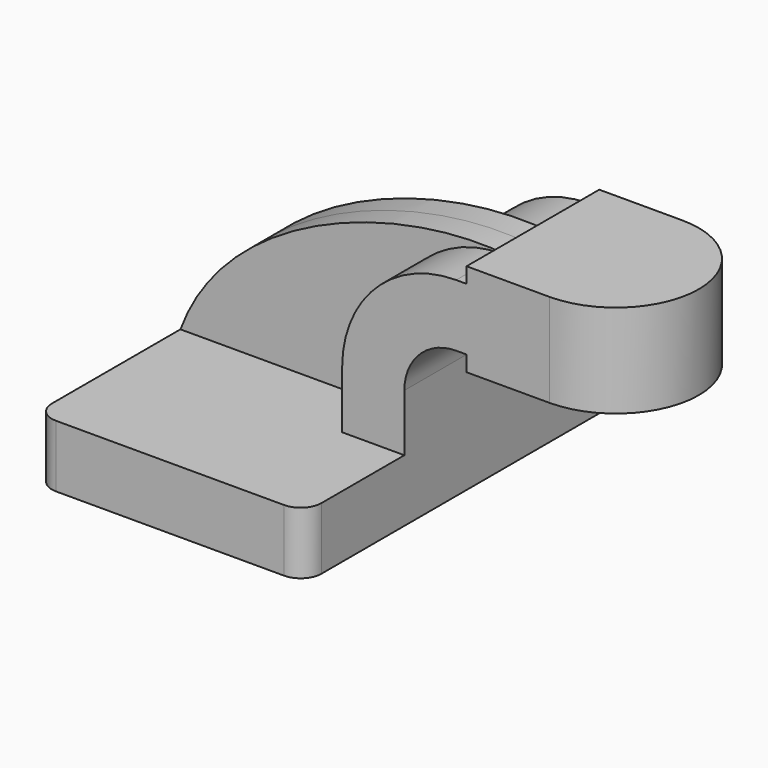
from build123d import *

# Parameters (mm, degrees)
F1_DEPTH = 63.5
F2_DEPTH = 25.4
F3_DEPTH = 7.9375
F0_W     = 25.4
F0_H     = 28.575
F5_R     = 6.35


with BuildPart() as f1:
    # F0 (on Front) → F1 (new body, symmetric)
    with BuildSketch(Plane.XZ):
        Polygon((-41.275, 9.525), (-41.275, -9.525), (41.275, -9.525), (41.275, 9.525), (22.225, 9.525), align=None)
    extrude(amount=F1_DEPTH, both=True)

    # F0 (on Front) → F2 (join, symmetric)
    with BuildSketch(Plane.XZ):
        with BuildLine():
            Line((22.225, 9.525), (41.275, 9.525))
            Line((41.275, 9.525), (41.275, 27.0002))
            ThreePointArc((41.275, 27.0002), (45.92468, 38.22552), (57.15, 42.8752))
            Line((57.15, 42.8752), (60.325, 42.8752))
            Line((60.325, 42.8752), (60.325, 61.9252))
            Line((60.325, 61.9252), (57.15, 61.9252))
            ThreePointArc((57.15, 61.9252), (32.454296, 51.695904), (22.225, 27.0002))
            Line((22.225, 27.0002), (22.225, 9.525))
        make_face()
        Polygon((60.325, 66.675), (60.325, 61.9252), (60.325, 42.8752), (60.325, 38.1), (85.725, 38.1), (85.725, 66.675), align=None)
    extrude(amount=F2_DEPTH, both=True)

    # F0 (on Front) → F3 (join, symmetric)
    with BuildSketch(Plane.XZ):
        with BuildLine():
            add(Edge.make_bspline(
                [(-41.275, 9.525), (-27.082177, 48.334144), (26.706019, 66.012785), (60.325, 61.9252)],
                knots=[0, 0, 0, 0, 114.316845, 114.316845, 114.316845, 114.316845], degree=3))
            Line((-41.275, 9.525), (22.225, 9.525))
            Line((22.225, 9.525), (22.225, 27.0002))
            ThreePointArc((22.225, 27.0002), (32.454296, 51.695904), (57.15, 61.9252))
            Line((57.15, 61.9252), (60.325, 61.9252))
        make_face()
    extrude(amount=F3_DEPTH, both=True)

    # F0 (on Front) → F4 (revolve)
    with BuildSketch(Plane.XZ):
        with Locations((98.425, 52.3875)):
            Rectangle(F0_W, F0_H)
    revolve(axis=Axis((85.725, 0, 52.3875), (0, 0, 1)))

    # F5
    f5_edges = [f1.edges().sort_by_distance(p)[0] for p in [
        (-41.275, -63.5, 0),
        (41.275, -63.5, 0),
        (41.275, 63.5, 0),
        (-41.275, 63.5, 0),
    ]]
    fillet(f5_edges, radius=F5_R)


solid = f1.part
